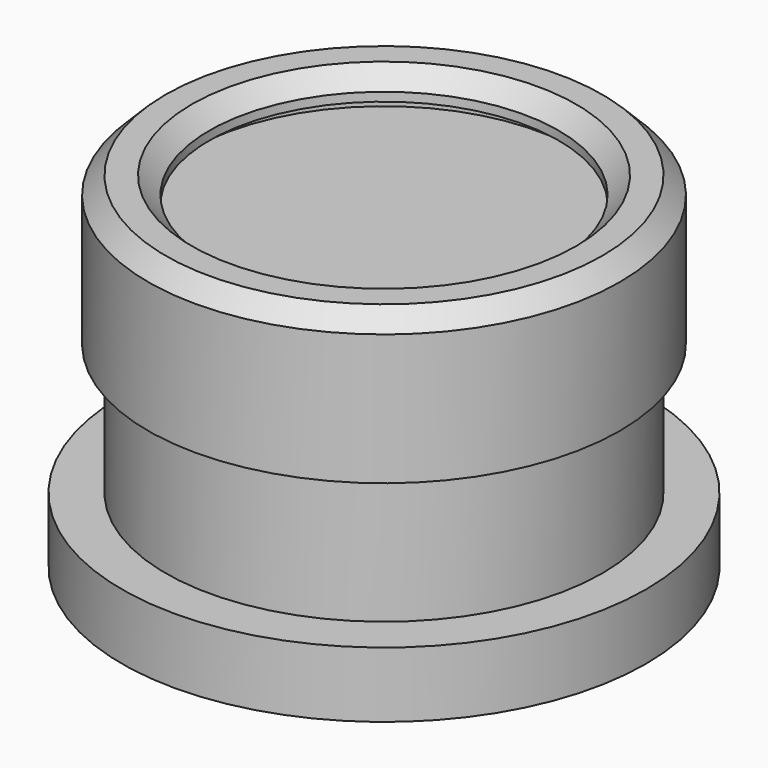
from build123d import *

# Parameters (mm, degrees)
F0_W   = 9.525
F0_H   = 12.7
F0_W_2 = 1.27
F0_H_2 = 3.175


with BuildPart() as f1:
    # F0 (on Front) → F1 (revolve)
    with BuildSketch(Plane.XZ):
        with Locations((4.7625, 24.13)):
            Rectangle(F0_W, F0_H)
    revolve(axis=Axis((0, 0, 24.13), (0, 0, -1)))


with BuildPart() as f2:
    # F0 (on Front) → F2 (revolve)
    with BuildSketch(Plane.XZ):
        Polygon((9.525, 17.78), (0, 17.78), (0, 12.7), (19.05, 12.7), (22.225, 15.875), (22.225, 24.13), (24.765, 24.13), (27.94, 27.305), (27.94, 30.48), (26.035, 30.48), (26.035, 27.305), (24.13, 27.305), (22.225, 27.305), (22.225, 30.48), (12.7, 30.48), (12.7, 21.336), (9.652, 18.288), (9.652, 17.78), align=None)
    revolve(axis=Axis((0, 0, 24.13), (0, 0, -1)))


with BuildPart() as f3:
    # F0 (on Front) → F3 (revolve)
    with BuildSketch(Plane.XZ):
        with BuildLine():
            Line((0, 34.925), (0, 30.48))
            Line((0, 30.48), (9.525, 30.48))
            Line((9.525, 30.48), (12.7, 30.48))
            Line((12.7, 30.48), (22.225, 30.48))
            Line((22.225, 30.48), (23.030148, 30.48))
            ThreePointArc((23.030148, 30.48), (24.13, 30.861), (25.229852, 30.48))
            Line((25.229852, 30.48), (26.035, 30.48))
            Line((26.035, 30.48), (27.94, 30.48))
            Line((27.94, 30.48), (27.94, 34.925))
            Line((27.94, 34.925), (0, 34.925))
        make_face()
    revolve(axis=Axis((0, 0, 32.7025), (0, 0, 1)))


with BuildPart() as f4:
    # F0 (on Front) → F4 (revolve)
    with BuildSketch(Plane.XZ):
        Polygon((30.48, 22.225), (28.575, 22.225), (25.4, 19.05), (25.4, 3.175), (0, 3.175), (0, -9.525), (11.319564, -9.525), (38.1, -9.525), (38.1, 0), (31.75, 0), (31.75, 19.05), (30.48, 19.05), align=None)
        with Locations((31.115, 20.6375)):
            Rectangle(F0_W_2, F0_H_2)
    revolve(axis=Axis((0, 0, -3.175), (0, 0, 1)))


with BuildPart() as f5:
    # F0 (on Front) → F5 (revolve)
    with BuildSketch(Plane.XZ):
        Polygon((30.48, 36.83), (30.48, 22.225), (31.75, 22.225), (31.75, 19.05), (34.29, 19.05), (34.29, 38.1), (31.75, 40.64), (27.94, 40.64), (25.4, 38.1), (25.4, 36.83), align=None)
        with Locations((31.115, 20.6375)):
            Rectangle(F0_W_2, F0_H_2)
    revolve(axis=Axis((0, 0, 32.7025), (0, 0, 1)))


with BuildPart() as f6:
    # F0 (on Front) → F6 (revolve)
    with BuildSketch(Plane.XZ):
        with BuildLine():
            ThreePointArc((25.229852, 30.48), (24.13, 30.861), (23.030148, 30.48))
            Line((23.030148, 30.48), (25.229852, 30.48))
        make_face()
        with BuildLine():
            Line((25.229852, 30.48), (23.030148, 30.48))
            ThreePointArc((23.030148, 30.48), (22.449948, 28.501013), (24.13, 27.305))
            ThreePointArc((24.13, 27.305), (25.387236, 27.825764), (25.908, 29.083))
            ThreePointArc((25.908, 29.083), (25.729503, 29.859449), (25.229852, 30.48))
        make_face()
    revolve(axis=Axis((0, 0, 24.13), (0, 0, -1)))


solid = Compound([f1.part, f2.part, f3.part, f4.part, f5.part, f6.part])
